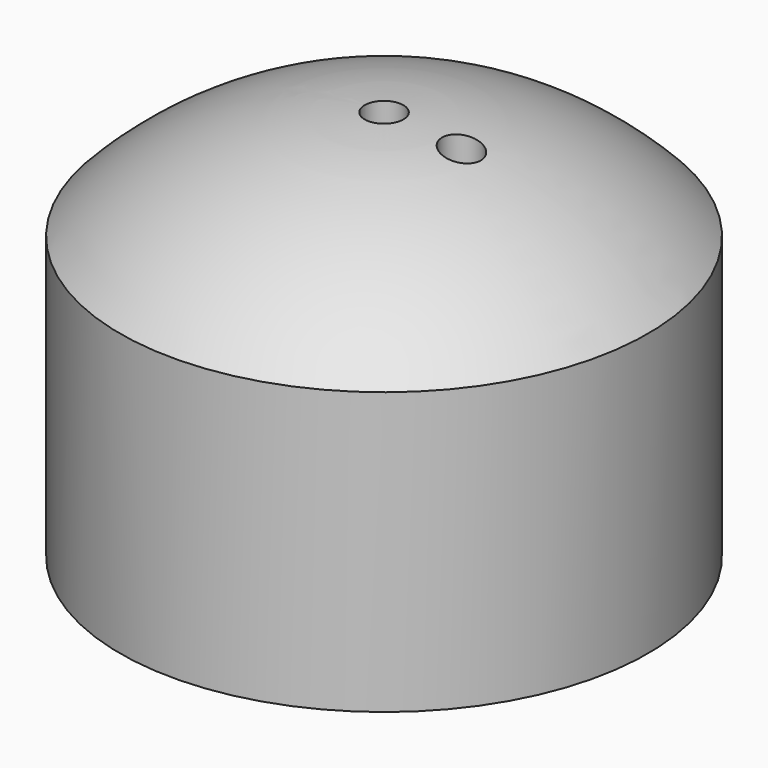
from build123d import *

# Parameters (mm, degrees)
F2_R     = 2.75
F3_DEPTH = 60
F4_R     = 2.75
F5_DEPTH = 60


with BuildPart() as f1:
    # F0 (on Front) → F1 (revolve)
    with BuildSketch(Plane.XZ):
        with BuildLine():
            Line((-37.5, 40), (-37.5, 0))
            Line((-37.5, 0), (-31.5, 0))
            Line((-31.5, 0), (-31.5, 37.5))
            ThreePointArc((-31.5, 37.5), (-16.943087, 46.756579), (0, 50))
            Line((0, 50), (0, 55.5))
            ThreePointArc((0, 55.5), (-20.393033, 51.72508), (-37.5, 40))
        make_face()
    revolve(axis=Axis((0, 0, -14.908669), (0, 0, -1)))

    # F2 (on Top) → F3 (cut)
    with BuildSketch(Plane.XY):
        Circle(F2_R)
    extrude(amount=F3_DEPTH, mode=Mode.SUBTRACT)

    # F4 (on Top) → F5 (cut)
    with BuildSketch(Plane.XY):
        with Locations((11, 0)):
            Circle(F4_R)
    extrude(amount=F5_DEPTH, mode=Mode.SUBTRACT)


solid = f1.part
